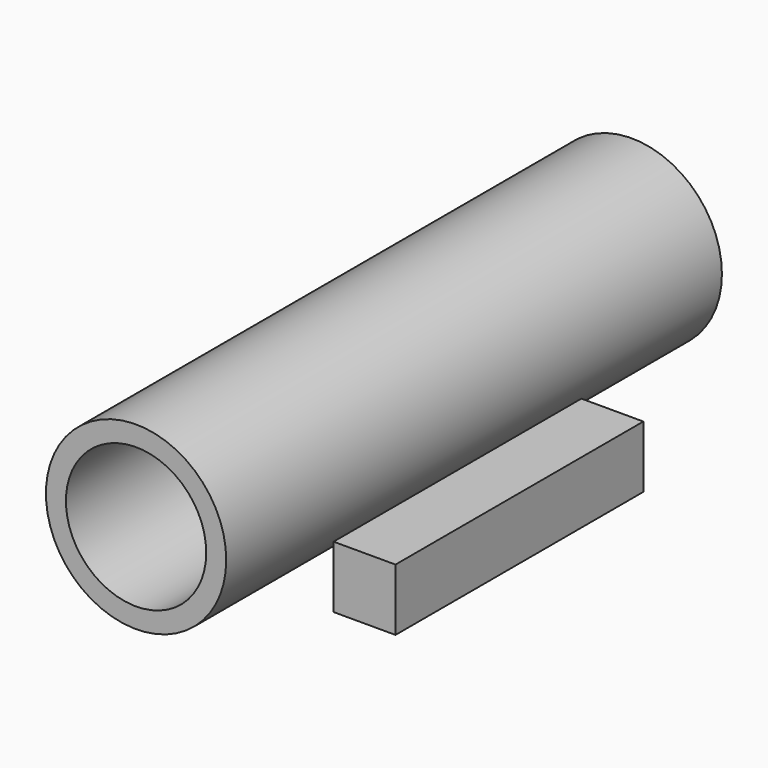
from build123d import *

# Parameters (mm, degrees)
F1_R          = 36.95944
F1_R_2        = 28.758765
F4_W          = 25.4
F4_H          = 25.4
F5_DEPTH      = 63.5
F5_DEPTH_BACK = 63.5


with BuildPart() as f2:
    # F2: sweep along a path in F0
    with BuildLine(Plane.YZ) as f2_path:
        Line((0, 0), (254, 0))
    # F1 (on Front) → F2 (sweep)
    with BuildSketch(Plane.XZ):
        Circle(F1_R)
        Circle(F1_R_2, mode=Mode.SUBTRACT)
    sweep(path=f2_path.line)


with BuildPart() as f5:
    # F4 (on offset) → F5 (new body, two sides)
    with BuildSketch(Plane.XZ.offset(-127)) as f5_sk:
        with Locations((42.847926, -34.079961)):
            Rectangle(F4_W, F4_H)
        with Locations((-42.847926, -34.079961)):
            Rectangle(F4_W, F4_H)
    extrude(amount=F5_DEPTH)
    extrude(f5_sk.sketch, amount=-F5_DEPTH_BACK)


solid = Compound([f2.part, f5.part])
